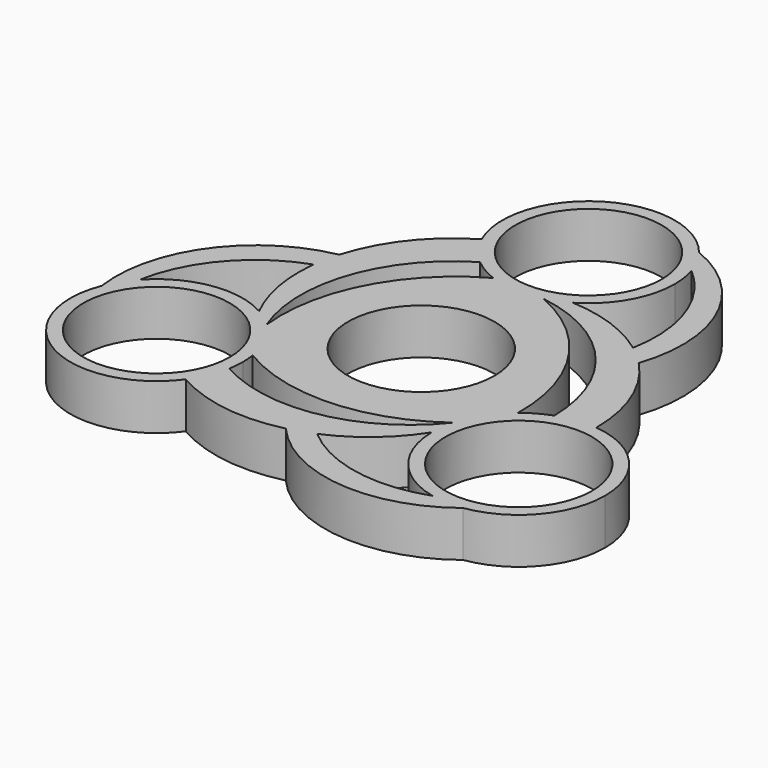
from build123d import *

# Parameters (mm, degrees)
F0_R     = 11.2
F0_R_2   = 13.2
F1_DEPTH = 7


with BuildPart() as f1:
    # F0 (on Top) → F1 (new body)
    with BuildSketch(Plane.XY):
        with BuildLine():
            ThreePointArc((6.699736, 20.60143), (11.46029, 25.424858), (13.2, 31.9748))
            ThreePointArc((13.2, 31.9748), (13.048167, 33.971132), (12.59616, 35.921539))
            ThreePointArc((12.59616, 35.921539), (11.664432, 38.15388), (10.34098, 40.17871))
            ThreePointArc((10.34098, 40.17871), (-6.83944, 43.26471), (-12.059859, 26.608256))
            ThreePointArc((-12.059859, 26.608256), (-10.553777, 24.046509), (-8.512807, 21.886583))
            ThreePointArc((-8.512807, 21.886583), (-6.711654, 20.60846), (-4.722613, 19.64853))
            ThreePointArc((-4.722613, 19.64853), (-0.715754, 18.79422), (3.360055, 19.209612))
            ThreePointArc((3.360055, 19.209612), (5.077808, 19.790553), (6.699736, 20.60143))
        make_face()
        with Locations((0, 31.9748)):
            Circle(F0_R, mode=Mode.SUBTRACT)
        with BuildLine():
            ThreePointArc((10.34098, 40.17871), (11.664432, 38.15388), (12.59616, 35.921539))
            ThreePointArc((12.59616, 35.921539), (18.781531, 26.896904), (19.593705, 15.986211))
            ThreePointArc((19.593705, 15.986211), (21.142377, 14.729254), (22.578902, 13.345517))
            ThreePointArc((22.578902, 13.345517), (21.814507, 29.204192), (10.34098, 40.17871))
        make_face()
        with BuildLine():
            ThreePointArc((19.593705, 15.986211), (13.490319, 19.253765), (6.699736, 20.60143))
            ThreePointArc((6.699736, 20.60143), (5.077808, 19.790553), (3.360055, 19.209612))
            ThreePointArc((3.360055, 19.209612), (17.479874, 11.47432), (23.21074, -3.570985))
            ThreePointArc((23.21074, -3.570985), (26.101776, -2.883416), (29.073356, -2.859984))
            ThreePointArc((29.073356, -2.859984), (27.386598, 5.868135), (22.578902, 13.345517))
            ThreePointArc((22.578902, 13.345517), (21.142377, 14.729254), (19.593705, 15.986211))
        make_face()
        with BuildLine():
            ThreePointArc((-8.512807, 21.886583), (-10.553777, 24.046509), (-12.059859, 26.608256))
            ThreePointArc((-12.059859, 26.608256), (-18.775253, 20.783423), (-22.847008, 12.881144))
            ThreePointArc((-22.847008, 12.881144), (-23.327096, 10.945209), (-23.641317, 8.97554))
            ThreePointArc((-23.641317, 8.97554), (-23.419409, 2.056076), (-21.191229, -4.498574))
            ThreePointArc((-21.191229, -4.498574), (-19.678026, -5.497766), (-18.316039, -6.694913))
            ThreePointArc((-18.316039, -6.694913), (-18.67699, 9.400855), (-8.512807, 21.886583))
        make_face()
        with BuildLine():
            ThreePointArc((23.21074, -3.570985), (21.203277, -4.491767), (19.377433, -5.734362))
            ThreePointArc((19.377433, -5.734362), (16.634148, -8.777249), (14.955984, -12.514699))
            ThreePointArc((14.955984, -12.514699), (14.600218, -14.292788), (14.491494, -16.102856))
            ThreePointArc((14.491494, -16.102856), (17.425303, -24.285333), (24.810885, -28.869364))
            ThreePointArc((24.810885, -28.869364), (27.210013, -29.178634), (29.625294, -29.044906))
            ThreePointArc((29.625294, -29.044906), (37.685308, -24.610253), (40.890989, -15.9874))
            ThreePointArc((40.890989, -15.9874), (37.501372, -7.155844), (29.073356, -2.859984))
            ThreePointArc((29.073356, -2.859984), (26.101776, -2.883416), (23.21074, -3.570985))
        make_face()
        with Locations((27.690989, -15.9874)):
            Circle(F0_R, mode=Mode.SUBTRACT)
        with BuildLine():
            ThreePointArc((-23.641317, 8.97554), (-23.327096, 10.945209), (-22.847008, 12.881144))
            ThreePointArc((-22.847008, 12.881144), (-36.198826, 4.289821), (-39.966273, -11.133804))
            ThreePointArc((-39.966273, -11.133804), (-38.874445, -8.975245), (-37.407045, -7.052174))
            ThreePointArc((-37.407045, -7.052174), (-32.684167, 2.816831), (-23.641317, 8.97554))
        make_face()
        with BuildLine():
            ThreePointArc((-14.65482, -13.914168), (-15.918395, -10.016971), (-18.316039, -6.694913))
            ThreePointArc((-18.316039, -6.694913), (-19.678026, -5.497766), (-21.191229, -4.498574))
            ThreePointArc((-21.191229, -4.498574), (-29.744367, -2.948089), (-37.407045, -7.052174))
            ThreePointArc((-37.407045, -7.052174), (-38.874445, -8.975245), (-39.966273, -11.133804))
            ThreePointArc((-39.966273, -11.133804), (-34.048618, -27.555484), (-17.013496, -23.748273))
            ThreePointArc((-17.013496, -23.748273), (-15.547999, -21.163093), (-14.697934, -18.315599))
            ThreePointArc((-14.697934, -18.315599), (-14.542827, -17.156089), (-14.490989, -15.9874))
            ThreePointArc((-14.490989, -15.9874), (-14.53201, -14.947552), (-14.65482, -13.914168))
        make_face()
        with Locations((-27.690989, -15.9874)):
            Circle(F0_R, mode=Mode.SUBTRACT)
        with BuildLine():
            ThreePointArc((14.491494, -16.102856), (14.600218, -14.292788), (14.955984, -12.514699))
            ThreePointArc((14.955984, -12.514699), (1.197116, -20.875175), (-14.697934, -18.315599))
            ThreePointArc((-14.697934, -18.315599), (-15.547999, -21.163093), (-17.013496, -23.748273))
            ThreePointArc((-17.013496, -23.748273), (-8.611345, -26.651557), (0.268106, -26.226661))
            ThreePointArc((0.268106, -26.226661), (2.184719, -25.674462), (4.047613, -24.961751))
            ThreePointArc((4.047613, -24.961751), (9.92909, -21.309841), (14.491494, -16.102856))
        make_face()
        with BuildLine():
            ThreePointArc((0.268106, -26.226661), (14.384319, -33.494013), (29.625294, -29.044906))
            ThreePointArc((29.625294, -29.044906), (27.210013, -29.178634), (24.810885, -28.869364))
            ThreePointArc((24.810885, -28.869364), (13.902636, -29.713735), (4.047613, -24.961751))
            ThreePointArc((4.047613, -24.961751), (2.184719, -25.674462), (0.268106, -26.226661))
        make_face()
        with BuildLine():
            ThreePointArc((19.377433, -5.734362), (15.146889, 9.163701), (3.360055, 19.209612))
            ThreePointArc((3.360055, 19.209612), (-0.715754, 18.79422), (-4.722613, 19.64853))
            ThreePointArc((-4.722613, 19.64853), (-15.509442, 8.535741), (-18.316039, -6.694913))
            ThreePointArc((-18.316039, -6.694913), (-15.918395, -10.016971), (-14.65482, -13.914168))
            ThreePointArc((-14.65482, -13.914168), (0.362553, -17.699441), (14.955984, -12.514699))
            ThreePointArc((14.955984, -12.514699), (16.634148, -8.777249), (19.377433, -5.734362))
        make_face()
        Circle(F0_R_2, mode=Mode.SUBTRACT)
        Circle(F0_R_2)
        Circle(F0_R, mode=Mode.SUBTRACT)
    extrude(amount=F1_DEPTH)


solid = f1.part
